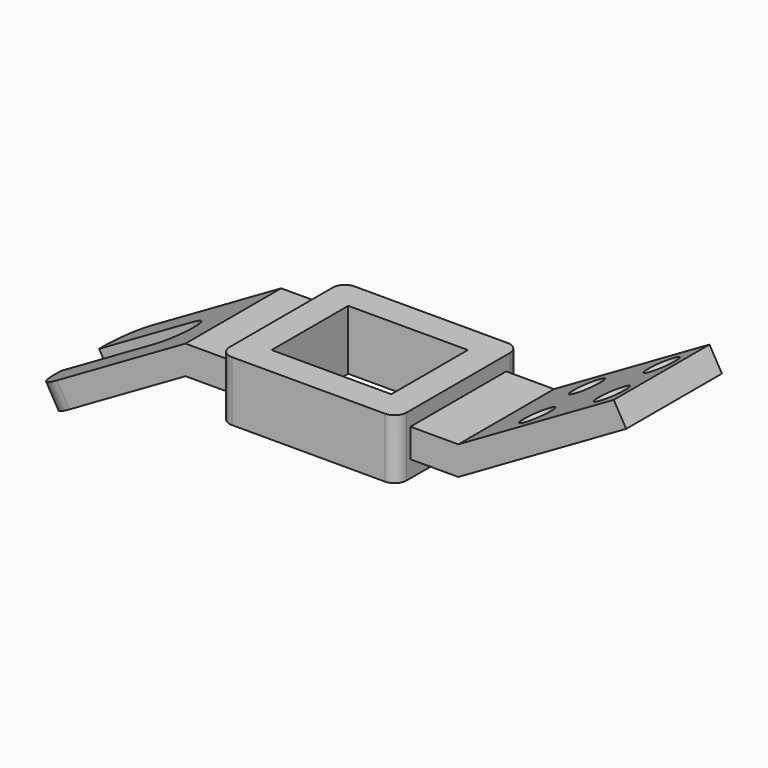
from build123d import *

# Parameters (mm, degrees)
F0_W           = 74
F0_H           = 64
F0_W_2         = 50
F0_H_2         = 40
F1_DEPTH       = 25
F2_W           = 50
F2_H           = 12
F3_DEPTH       = 20
F5_DEPTH       = 25
F5_DEPTH_BACK  = 25
F7_DEPTH       = 25
F8_W           = 50
F8_H           = 12
F9_DEPTH       = 20
F10_W          = 20
F10_H          = 12
F11_DEPTH      = 25
F11_DEPTH_BACK = 25
F12_R          = 6.5
F13_DEPTH      = 25
F14_R          = 5
F15_R          = 12


with BuildPart() as f1:
    # F0 (on Top) → F1 (new body)
    with BuildSketch(Plane.XY):
        Rectangle(F0_W, F0_H)
        Rectangle(F0_W_2, F0_H_2, mode=Mode.SUBTRACT)
    extrude(amount=F1_DEPTH)

    # F2 (on face) → F3 (join)
    with BuildSketch(Plane(origin=(-37, 0, 0), x_dir=(0, -1, 0), z_dir=(-1, 0, 0))):
        with Locations((0, 13)):
            Rectangle(F2_W, F2_H)
    extrude(amount=F3_DEPTH)

    # F4 (on Front) → F5 (join, two sides)
    with BuildSketch(Plane.XZ) as f5_sk:
        Polygon((-115.8897274573, -27), (-57, 7), (-57, 19), (-121.08587988, -18), align=None)
    extrude(amount=F5_DEPTH)
    extrude(f5_sk.sketch, amount=-F5_DEPTH_BACK)

    # F6 (on face) → F7 (cut)
    with BuildSketch(Plane(origin=(-22.477241336, 0, 38.9317240079), x_dir=(0.8660254038, 0, 0.5), z_dir=(-0.5, 0, 0.8660254038))):
        with BuildLine():
            ThreePointArc((-68.8634480157, -10), (-61.7923802038, -7.0710678119), (-58.8634480157, 0))
            Line((-58.8634480157, 0), (-78.8634480157, 0))
            ThreePointArc((-78.8634480157, 0), (-75.9345158276, -7.0710678119), (-68.8634480157, -10))
        make_face()
        with BuildLine():
            Line((-78.8634480157, 0), (-58.8634480157, 0))
            ThreePointArc((-58.8634480157, 0), (-61.7923802038, 7.0710678119), (-68.8634480157, 10))
            ThreePointArc((-68.8634480157, 10), (-75.9345158276, 7.0710678119), (-78.8634480157, 0))
        make_face()
        with BuildLine():
            ThreePointArc((-68.8634480157, -10), (-75.9345158276, -7.0710678119), (-78.8634480157, 0))
            Line((-78.8634480157, 0), (-113.8634480157, 0))
            Line((-113.8634480157, 0), (-113.8634480157, -10))
            Line((-113.8634480157, -10), (-68.8634480157, -10))
        make_face()
        with BuildLine():
            Line((-113.8634480157, 0), (-78.8634480157, 0))
            ThreePointArc((-78.8634480157, 0), (-75.9345158276, 7.0710678119), (-68.8634480157, 10))
            Line((-68.8634480157, 10), (-113.8634480157, 10))
            Line((-113.8634480157, 10), (-113.8634480157, 0))
        make_face()
    extrude(amount=-F7_DEPTH, mode=Mode.SUBTRACT)

    # F8 (on face) → F9 (join)
    with BuildSketch(Plane.YZ.offset(37)):
        with Locations((0, 13)):
            Rectangle(F8_W, F8_H)
    extrude(amount=F9_DEPTH)

    # F10 (on Front) → F11 (join, two sides)
    with BuildSketch(Plane.XZ) as f11_sk:
        with Locations((47, 13)):
            Rectangle(F10_W, F10_H)
        Polygon((121.9519052838, 56.5), (57, 19), (57, 7), (127.1480577065, 47.5), align=None)
    extrude(amount=F11_DEPTH)
    extrude(f11_sk.sketch, amount=-F11_DEPTH_BACK)

    # F12 (on face) → F13 (cut)
    with BuildSketch(Plane(origin=(6.022758664, 0, -10.4317240079), x_dir=(0.8660254038, 0, 0.5), z_dir=(-0.5, 0, 0.8660254038))):
        with BuildLine():
            ThreePointArc((92.3634480157, 13), (90.4596420934, 17.5961940777), (85.8634480157, 19.5))
            ThreePointArc((85.8634480157, 19.5), (81.267253938, 8.4038059223), (92.3634480157, 13))
        make_face()
        with Locations((121.8634480157, 13)):
            Circle(F12_R)
        with Locations((121.8634480157, -13)):
            Circle(F12_R)
        with Locations((85.8634480157, -13)):
            Circle(F12_R)
    extrude(amount=-F13_DEPTH, mode=Mode.SUBTRACT)

    # F14
    f14_edges = [f1.edges().sort_by_distance(p)[0] for p in [
        (-37, 32, 12.5),
        (37, 32, 12.5),
        (-37, -32, 12.5),
        (37, -32, 12.5),
    ]]
    fillet(f14_edges, radius=F14_R)

    # F15
    f15_edges = [f1.edges().sort_by_distance(p)[0] for p in [
        (-118.487804, 25, -22.5),
        (-118.487804, -25, -22.5),
    ]]
    fillet(f15_edges, radius=F15_R)


solid = f1.part
